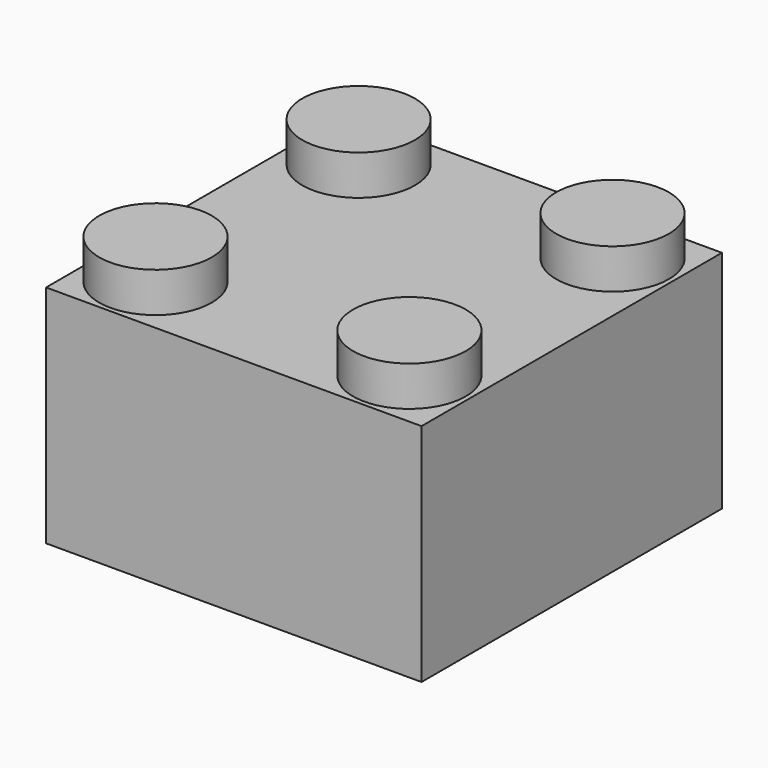
from build123d import *

# Parameters (mm, degrees)
F0_W      = 16
F0_H      = 16
F1_DEPTH  = 9.6
F3_T      = -0.75
F5_R      = 2.4
F6_DEPTH  = 9
F7_T      = -0.5
F8_R      = 2.4
F9_DEPTH  = 1.7
F10_R     = 2.4
F11_DEPTH = 1.7
F12_R     = 2.4
F13_DEPTH = 1.7
F14_R     = 2.4
F15_DEPTH = 1.7


with BuildPart() as f1:
    # F0 (on Top) → F1 (new body)
    with BuildSketch(Plane.XY):
        with Locations((-50.941612, 24.318393)):
            Rectangle(F0_W, F0_H)
    extrude(amount=F1_DEPTH)

    # F3
    f3_openings = [f1.faces().sort_by_distance(p)[0] for p in [
        (-50.941612, 24.318393, 0),
    ]]
    offset(amount=F3_T, openings=f3_openings)

    # F8 (on face) → F9 (join)
    with BuildSketch(Plane.XY.offset(9.6)):
        with Locations((-56.351612, 29.728393)):
            Circle(F8_R)
    extrude(amount=F9_DEPTH)

    # F10 (on face) → F11 (join)
    with BuildSketch(Plane.XY.offset(9.6)):
        with Locations((-45.531612, 29.728393)):
            Circle(F10_R)
    extrude(amount=F11_DEPTH)

    # F12 (on face) → F13 (join)
    with BuildSketch(Plane.XY.offset(9.6)):
        with Locations((-56.351612, 18.908393)):
            Circle(F12_R)
    extrude(amount=F13_DEPTH)

    # F14 (on face) → F15 (join)
    with BuildSketch(Plane.XY.offset(9.6)):
        with Locations((-45.531612, 18.908393)):
            Circle(F14_R)
    extrude(amount=F15_DEPTH)


with BuildPart() as f6:
    # F5 (on face) → F6 (new body)
    with BuildSketch(Plane(origin=(0, 0, 0), x_dir=(1, 0, 0), z_dir=(0, 0, -1))):
        with Locations((-51.091612, -24.468393)):
            Circle(F5_R)
    extrude(amount=-F6_DEPTH)

    # F7
    f7_openings = [f6.faces().sort_by_distance(p)[0] for p in [
        (-51.091612, 24.468393, 0),
    ]]
    offset(amount=F7_T, openings=f7_openings)


solid = Compound([f1.part, f6.part])
